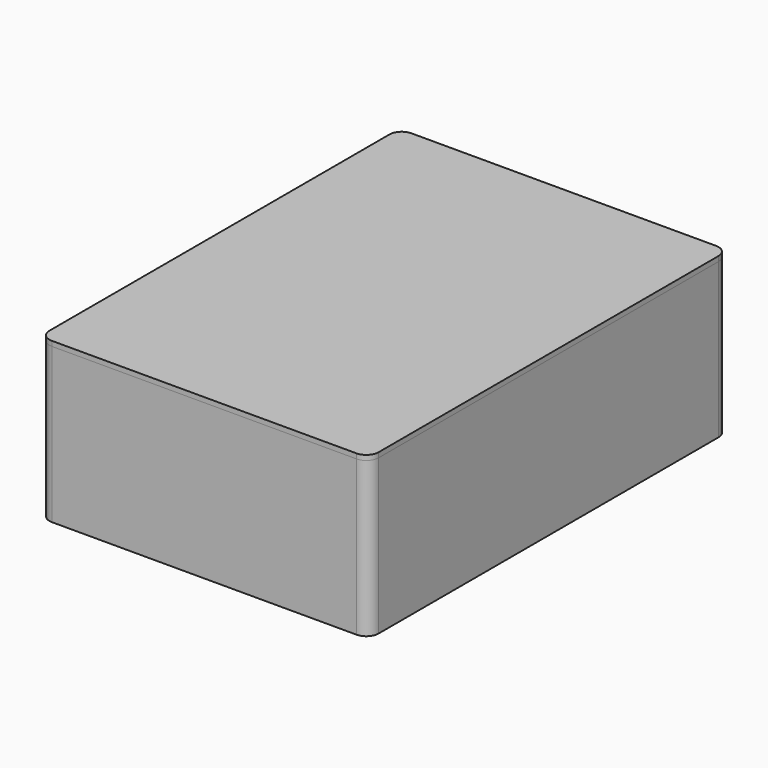
from build123d import *

# Parameters (mm, degrees)
BOX_W        = 53.6
BOX_H        = 73.2
BOX_DEPTH    = 25.2
FILLET_R     = 2
POCKET_DEPTH = 23.6
BOX001_W     = 53.6
BOX001_H     = 73.2
BOX001_DEPTH = 0.8
FILLET001_R  = 2
PAD_DEPTH    = 1.6


with BuildPart() as outer_shell:
    # Box → Box (join)
    with BuildSketch(Plane.XY):
        with Locations((26.8, 36.6)):
            Rectangle(BOX_W, BOX_H)
    extrude(amount=BOX_DEPTH)

    # Fillet
    fillet_edges = [outer_shell.edges().sort_by_distance(p)[0] for p in [
        (53.6, 0, 12.6),
        (53.6, 73.2, 12.6),
        (0, 0, 12.6),
        (0, 73.2, 12.6),
    ]]
    fillet(fillet_edges, radius=FILLET_R)

    # Sketch (on Face2 of Fillet) → Pocket (cut)
    with BuildSketch(Plane.XY.offset(25.2)):
        with BuildLine():
            Line((2, 72.2), (51.6, 72.2))
            ThreePointArc((52.6, 71.2), (52.307107, 71.907107), (51.6, 72.2))
            Line((52.6, 71.2), (52.6, 2))
            ThreePointArc((51.6, 1), (52.307107, 1.292893), (52.6, 2))
            Line((51.6, 1), (2, 1))
            ThreePointArc((1, 2), (1.292893, 1.292893), (2, 1))
            Line((1, 2), (1, 71.2))
            ThreePointArc((2, 72.2), (1.292893, 71.907107), (1, 71.2))
        make_face()
    extrude(amount=-POCKET_DEPTH, mode=Mode.SUBTRACT)


with BuildPart() as box_lid:
    # Box001 → Box001 (join)
    with BuildSketch(Plane.XY):
        with Locations((26.8, 36.6)):
            Rectangle(BOX001_W, BOX001_H)
    extrude(amount=BOX001_DEPTH)

    # Fillet001
    fillet001_edges = [box_lid.edges().sort_by_distance(p)[0] for p in [
        (0, 0, 0.4),
        (53.6, 0, 0.4),
        (53.6, 73.2, 0.4),
        (0, 73.2, 0.4),
    ]]
    fillet(fillet001_edges, radius=FILLET001_R)

    # Sketch001 (on Face5 of Fillet001) → Pad (join)
    with BuildSketch(Plane(origin=(0, 0, 0), x_dir=(1, 0, 0), z_dir=(0, 0, -1))):
        with BuildLine():
            Line((2, -0.925), (51.6, -0.925))
            ThreePointArc((52.675, -2), (52.36014, -1.23986), (51.6, -0.925))
            Line((52.675, -2), (52.675, -71.2))
            ThreePointArc((51.6, -72.275), (52.36014, -71.96014), (52.675, -71.2))
            Line((51.6, -72.275), (2, -72.275))
            ThreePointArc((0.925, -71.2), (1.23986, -71.96014), (2, -72.275))
            Line((0.925, -71.2), (0.925, -2))
            ThreePointArc((2, -0.925), (1.23986, -1.23986), (0.925, -2))
        make_face()
    extrude(amount=PAD_DEPTH)


with BuildPart() as box_lid_1:
    # Body001 placement: moved
    add(box_lid.part.moved(Location((0, 0, 25.2))))


solid = Compound([outer_shell.part, box_lid_1.part])
